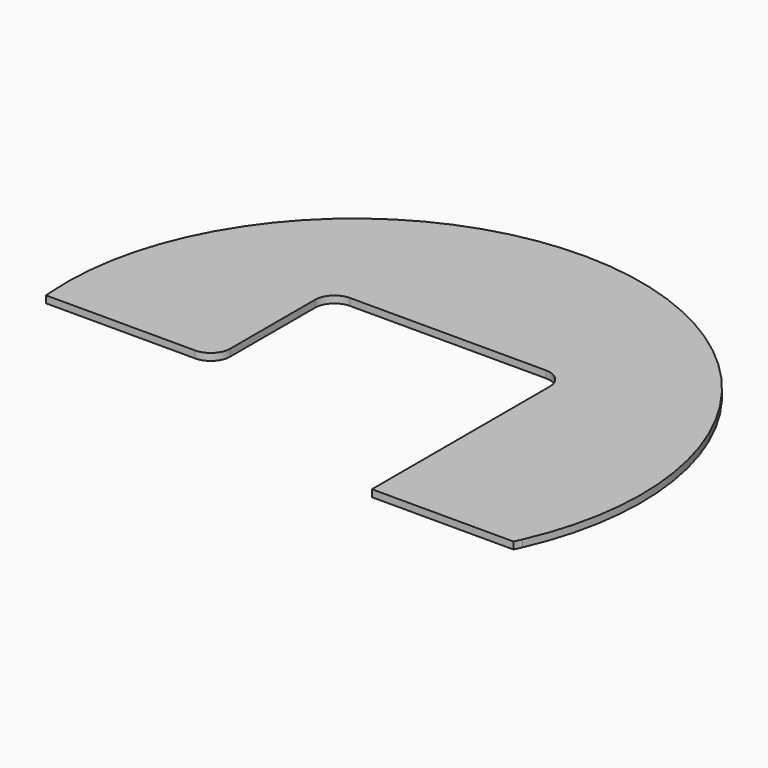
from build123d import *

# Parameters (mm, degrees)
F1_DEPTH = 18


with BuildPart() as f1:
    # F0 (on Top) → F1 (new body)
    with BuildSketch(Plane.XY):
        with BuildLine():
            ThreePointArc((-300, 250), (-285.355339, 285.355339), (-250, 300))
            Line((-250, 300), (250, 300))
            ThreePointArc((250, 300), (285.355339, 285.355339), (300, 250))
            Line((300, 250), (300, -300))
            Line((300, -300), (300, -318))
            Line((300, -318), (661.646431, -318))
            ThreePointArc((661.646431, -318), (665.88404, -309.028228), (670, -300))
            ThreePointArc((670, -300), (128.426587, 722.777014), (-732.336483, -50.825933))
            ThreePointArc((-732.336483, -50.825933), (-731.603853, -60.463233), (-730.744404, -70.090053))
            Line((-730.744404, -70.090053), (-350, -70.090053))
            ThreePointArc((-350, -70.090053), (-314.644661, -55.445392), (-300, -20.090053))
            Line((-300, -20.090053), (-300, -2.090053))
            Line((-300, -2.090053), (-300, 250))
        make_face()
    extrude(amount=F1_DEPTH)


solid = f1.part
